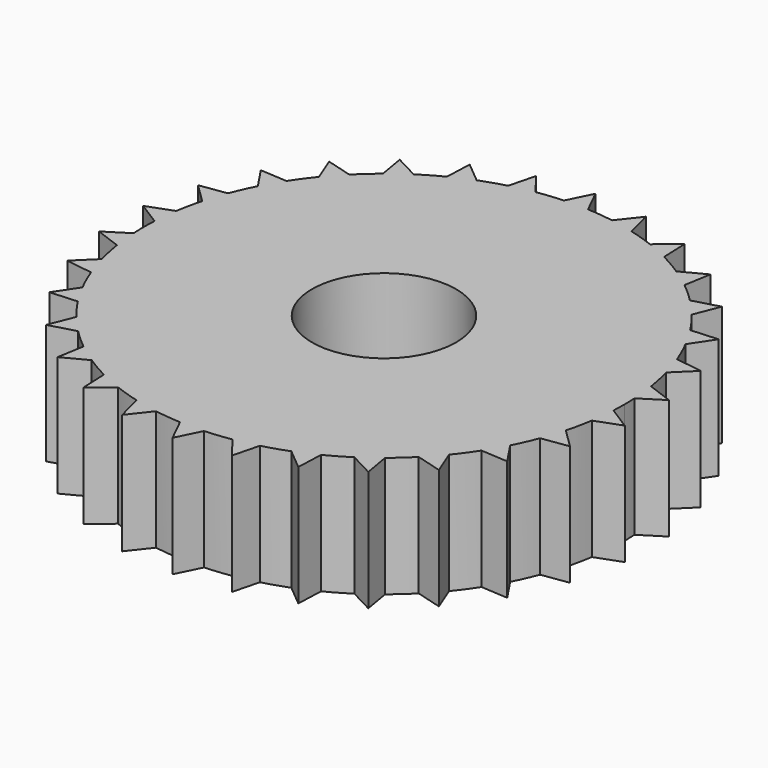
from build123d import *

# Parameters (mm, degrees)
F1_DEPTH = 25
F2_R     = 15
F3_DEPTH = 25


with BuildPart() as f1:
    # F0 (on Top) → F1 (new body)
    with BuildSketch(Plane.XY):
        with BuildLine():
            ThreePointArc((49.925219, -2.733581), (49.981301, -1.367302), (50, 0))
            ThreePointArc((50, 0), (49.981301, 1.367302), (49.925219, 2.733581))
            ThreePointArc((49.925219, 2.733581), (49.726095, 5.226423), (49.402577, 7.706191))
            ThreePointArc((49.402577, 7.706191), (48.90738, 10.395585), (48.26589, 13.053883))
            ThreePointArc((48.26589, 13.053883), (47.552826, 15.45085), (46.720805, 17.809165))
            ThreePointArc((46.720805, 17.809165), (45.677273, 20.336832), (44.49711, 22.803667))
            ThreePointArc((44.49711, 22.803667), (43.30127, 25), (41.99711, 27.133794))
            ThreePointArc((41.99711, 27.133794), (40.45085, 29.389263), (38.783592, 31.556821))
            ThreePointArc((38.783592, 31.556821), (37.157241, 33.45653), (35.437939, 35.272546))
            ThreePointArc((35.437939, 35.272546), (33.45653, 37.157241), (31.375046, 38.930791))
            ThreePointArc((31.375046, 38.930791), (29.389263, 40.45085), (27.329961, 41.869718))
            ThreePointArc((27.329961, 41.869718), (25, 43.30127), (22.595259, 44.603299))
            ThreePointArc((22.595259, 44.603299), (20.336832, 45.677273), (18.027532, 46.636982))
            ThreePointArc((18.027532, 46.636982), (15.45085, 47.552826), (12.827951, 48.326428))
            ThreePointArc((12.827951, 48.326428), (10.395585, 48.90738), (7.937213, 49.365987))
            ThreePointArc((7.937213, 49.365987), (5.226423, 49.726095), (2.5, 49.937461))
            ThreePointArc((2.5, 49.937461), (0, 50), (-2.5, 49.937461))
            ThreePointArc((-2.5, 49.937461), (-5.226423, 49.726095), (-7.937213, 49.365987))
            ThreePointArc((-7.937213, 49.365987), (-10.395585, 48.90738), (-12.827951, 48.326428))
            ThreePointArc((-12.827951, 48.326428), (-15.45085, 47.552826), (-18.027532, 46.636982))
            ThreePointArc((-18.027532, 46.636982), (-20.336832, 45.677273), (-22.595259, 44.603299))
            ThreePointArc((-22.595259, 44.603299), (-25, 43.30127), (-27.329961, 41.869718))
            ThreePointArc((-27.329961, 41.869718), (-29.389263, 40.45085), (-31.375046, 38.930791))
            ThreePointArc((-31.375046, 38.930791), (-33.45653, 37.157241), (-35.437939, 35.272546))
            ThreePointArc((-35.437939, 35.272546), (-37.157241, 33.45653), (-38.783592, 31.556821))
            ThreePointArc((-38.783592, 31.556821), (-40.45085, 29.389263), (-41.99711, 27.133794))
            ThreePointArc((-41.99711, 27.133794), (-43.30127, 25), (-44.49711, 22.803667))
            ThreePointArc((-44.49711, 22.803667), (-45.677273, 20.336832), (-46.720805, 17.809165))
            ThreePointArc((-46.720805, 17.809165), (-47.552826, 15.45085), (-48.26589, 13.053883))
            ThreePointArc((-48.26589, 13.053883), (-48.90738, 10.395585), (-49.402577, 7.706191))
            ThreePointArc((-49.402577, 7.706191), (-49.726095, 5.226423), (-49.925219, 2.733581))
            ThreePointArc((-49.925219, 2.733581), (-50, 0), (-49.925219, -2.733581))
            ThreePointArc((-49.925219, -2.733581), (-49.726095, -5.226423), (-49.402577, -7.706191))
            ThreePointArc((-49.402577, -7.706191), (-48.90738, -10.395585), (-48.26589, -13.053883))
            ThreePointArc((-48.26589, -13.053883), (-47.552826, -15.45085), (-46.720805, -17.809165))
            ThreePointArc((-46.720805, -17.809165), (-45.677273, -20.336832), (-44.49711, -22.803667))
            ThreePointArc((-44.49711, -22.803667), (-43.30127, -25), (-41.99711, -27.133794))
            ThreePointArc((-41.99711, -27.133794), (-40.45085, -29.389263), (-38.783592, -31.556821))
            ThreePointArc((-38.783592, -31.556821), (-37.157241, -33.45653), (-35.437939, -35.272546))
            ThreePointArc((-35.437939, -35.272546), (-33.45653, -37.157241), (-31.375046, -38.930791))
            ThreePointArc((-31.375046, -38.930791), (-29.389263, -40.45085), (-27.329961, -41.869718))
            ThreePointArc((-27.329961, -41.869718), (-25, -43.30127), (-22.595259, -44.603299))
            ThreePointArc((-22.595259, -44.603299), (-20.336832, -45.677273), (-18.027532, -46.636982))
            ThreePointArc((-18.027532, -46.636982), (-15.45085, -47.552826), (-12.827951, -48.326428))
            ThreePointArc((-12.827951, -48.326428), (-10.395585, -48.90738), (-7.937213, -49.365987))
            ThreePointArc((-7.937213, -49.365987), (-5.226423, -49.726095), (-2.5, -49.937461))
            ThreePointArc((-2.5, -49.937461), (0, -50), (2.5, -49.937461))
            ThreePointArc((2.5, -49.937461), (5.226423, -49.726095), (7.937213, -49.365987))
            ThreePointArc((7.937213, -49.365987), (10.395585, -48.90738), (12.827951, -48.326428))
            ThreePointArc((12.827951, -48.326428), (15.45085, -47.552826), (18.027532, -46.636982))
            ThreePointArc((18.027532, -46.636982), (20.336832, -45.677273), (22.595259, -44.603299))
            ThreePointArc((22.595259, -44.603299), (25, -43.30127), (27.329961, -41.869718))
            ThreePointArc((27.329961, -41.869718), (29.389263, -40.45085), (31.375046, -38.930791))
            ThreePointArc((31.375046, -38.930791), (33.45653, -37.157241), (35.437939, -35.272546))
            ThreePointArc((35.437939, -35.272546), (37.157241, -33.45653), (38.783592, -31.556821))
            ThreePointArc((38.783592, -31.556821), (40.45085, -29.389263), (41.99711, -27.133794))
            ThreePointArc((41.99711, -27.133794), (43.30127, -25), (44.49711, -22.803667))
            ThreePointArc((44.49711, -22.803667), (45.677273, -20.336832), (46.720805, -17.809165))
            ThreePointArc((46.720805, -17.809165), (47.552826, -15.45085), (48.26589, -13.053883))
            ThreePointArc((48.26589, -13.053883), (48.90738, -10.395585), (49.402577, -7.706191))
            ThreePointArc((49.402577, -7.706191), (49.726095, -5.226423), (49.925219, -2.733581))
        make_face()
        with BuildLine():
            ThreePointArc((49.402577, 7.706191), (49.726095, 5.226423), (49.925219, 2.733581))
            Line((49.925219, 2.733581), (54.698704, 5.749065))
            Line((54.698704, 5.749065), (49.402577, 7.706191))
        make_face()
        with BuildLine():
            Line((54.698704, -5.749065), (49.925219, -2.733581))
            ThreePointArc((49.925219, -2.733581), (49.726095, -5.226423), (49.402577, -7.706191))
            Line((49.402577, -7.706191), (54.698704, -5.749065))
        make_face()
        with BuildLine():
            ThreePointArc((46.720805, 17.809165), (47.552826, 15.45085), (48.26589, 13.053883))
            Line((48.26589, 13.053883), (52.308108, 16.995935))
            Line((52.308108, 16.995935), (46.720805, 17.809165))
        make_face()
        with BuildLine():
            Line((52.308108, -16.995935), (48.26589, -13.053883))
            ThreePointArc((48.26589, -13.053883), (47.552826, -15.45085), (46.720805, -17.809165))
            Line((46.720805, -17.809165), (52.308108, -16.995935))
        make_face()
        with BuildLine():
            ThreePointArc((41.99711, 27.133794), (43.30127, 25), (44.49711, 22.803667))
            Line((44.49711, 22.803667), (47.631397, 27.5))
            Line((47.631397, 27.5), (41.99711, 27.133794))
        make_face()
        with BuildLine():
            Line((47.631397, -27.5), (44.49711, -22.803667))
            ThreePointArc((44.49711, -22.803667), (43.30127, -25), (41.99711, -27.133794))
            Line((41.99711, -27.133794), (47.631397, -27.5))
        make_face()
        with BuildLine():
            ThreePointArc((35.437939, 35.272546), (37.157241, 33.45653), (38.783592, 31.556821))
            Line((38.783592, 31.556821), (40.872965, 36.802183))
            Line((40.872965, 36.802183), (35.437939, 35.272546))
        make_face()
        with BuildLine():
            Line((40.872965, -36.802183), (38.783592, -31.556821))
            ThreePointArc((38.783592, -31.556821), (37.157241, -33.45653), (35.437939, -35.272546))
            Line((35.437939, -35.272546), (40.872965, -36.802183))
        make_face()
        with BuildLine():
            ThreePointArc((27.329961, 41.869718), (29.389263, 40.45085), (31.375046, 38.930791))
            Line((31.375046, 38.930791), (32.328189, 44.495935))
            Line((32.328189, 44.495935), (27.329961, 41.869718))
        make_face()
        with BuildLine():
            Line((32.328189, -44.495935), (31.375046, -38.930791))
            ThreePointArc((31.375046, -38.930791), (29.389263, -40.45085), (27.329961, -41.869718))
            Line((27.329961, -41.869718), (32.328189, -44.495935))
        make_face()
        with BuildLine():
            ThreePointArc((18.027532, 46.636982), (20.336832, 45.677273), (22.595259, 44.603299))
            Line((22.595259, 44.603299), (22.370515, 50.245))
            Line((22.370515, 50.245), (18.027532, 46.636982))
        make_face()
        with BuildLine():
            Line((22.370515, -50.245), (22.595259, -44.603299))
            ThreePointArc((22.595259, -44.603299), (20.336832, -45.677273), (18.027532, -46.636982))
            Line((18.027532, -46.636982), (22.370515, -50.245))
        make_face()
        with BuildLine():
            ThreePointArc((7.937213, 49.365987), (10.395585, 48.90738), (12.827951, 48.326428))
            Line((12.827951, 48.326428), (11.435143, 53.798118))
            Line((11.435143, 53.798118), (7.937213, 49.365987))
        make_face()
        with BuildLine():
            Line((11.435143, -53.798118), (12.827951, -48.326428))
            ThreePointArc((12.827951, -48.326428), (10.395585, -48.90738), (7.937213, -49.365987))
            Line((7.937213, -49.365987), (11.435143, -53.798118))
        make_face()
        with BuildLine():
            ThreePointArc((-2.5, 49.937461), (0, 50), (2.5, 49.937461))
            Line((2.5, 49.937461), (0, 55))
            Line((0, 55), (-2.5, 49.937461))
        make_face()
        with BuildLine():
            Line((0, -55), (2.5, -49.937461))
            ThreePointArc((2.5, -49.937461), (0, -50), (-2.5, -49.937461))
            Line((-2.5, -49.937461), (0, -55))
        make_face()
        with BuildLine():
            ThreePointArc((-12.827951, 48.326428), (-10.395585, 48.90738), (-7.937213, 49.365987))
            Line((-7.937213, 49.365987), (-11.435143, 53.798118))
            Line((-11.435143, 53.798118), (-12.827951, 48.326428))
        make_face()
        with BuildLine():
            Line((-11.435143, -53.798118), (-7.937213, -49.365987))
            ThreePointArc((-7.937213, -49.365987), (-10.395585, -48.90738), (-12.827951, -48.326428))
            Line((-12.827951, -48.326428), (-11.435143, -53.798118))
        make_face()
        with BuildLine():
            ThreePointArc((-22.595259, 44.603299), (-20.336832, 45.677273), (-18.027532, 46.636982))
            Line((-18.027532, 46.636982), (-22.370515, 50.245))
            Line((-22.370515, 50.245), (-22.595259, 44.603299))
        make_face()
        with BuildLine():
            Line((-22.370515, -50.245), (-18.027532, -46.636982))
            ThreePointArc((-18.027532, -46.636982), (-20.336832, -45.677273), (-22.595259, -44.603299))
            Line((-22.595259, -44.603299), (-22.370515, -50.245))
        make_face()
        with BuildLine():
            ThreePointArc((-31.375046, 38.930791), (-29.389263, 40.45085), (-27.329961, 41.869718))
            Line((-27.329961, 41.869718), (-32.328189, 44.495935))
            Line((-32.328189, 44.495935), (-31.375046, 38.930791))
        make_face()
        with BuildLine():
            Line((-32.328189, -44.495935), (-27.329961, -41.869718))
            ThreePointArc((-27.329961, -41.869718), (-29.389263, -40.45085), (-31.375046, -38.930791))
            Line((-31.375046, -38.930791), (-32.328189, -44.495935))
        make_face()
        with BuildLine():
            ThreePointArc((-38.783592, 31.556821), (-37.157241, 33.45653), (-35.437939, 35.272546))
            Line((-35.437939, 35.272546), (-40.872965, 36.802183))
            Line((-40.872965, 36.802183), (-38.783592, 31.556821))
        make_face()
        with BuildLine():
            Line((-40.872965, -36.802183), (-35.437939, -35.272546))
            ThreePointArc((-35.437939, -35.272546), (-37.157241, -33.45653), (-38.783592, -31.556821))
            Line((-38.783592, -31.556821), (-40.872965, -36.802183))
        make_face()
        with BuildLine():
            ThreePointArc((-44.49711, 22.803667), (-43.30127, 25), (-41.99711, 27.133794))
            Line((-41.99711, 27.133794), (-47.631397, 27.5))
            Line((-47.631397, 27.5), (-44.49711, 22.803667))
        make_face()
        with BuildLine():
            Line((-47.631397, -27.5), (-41.99711, -27.133794))
            ThreePointArc((-41.99711, -27.133794), (-43.30127, -25), (-44.49711, -22.803667))
            Line((-44.49711, -22.803667), (-47.631397, -27.5))
        make_face()
        with BuildLine():
            ThreePointArc((-48.26589, 13.053883), (-47.552826, 15.45085), (-46.720805, 17.809165))
            Line((-46.720805, 17.809165), (-52.308108, 16.995935))
            Line((-52.308108, 16.995935), (-48.26589, 13.053883))
        make_face()
        with BuildLine():
            Line((-52.308108, -16.995935), (-46.720805, -17.809165))
            ThreePointArc((-46.720805, -17.809165), (-47.552826, -15.45085), (-48.26589, -13.053883))
            Line((-48.26589, -13.053883), (-52.308108, -16.995935))
        make_face()
        with BuildLine():
            ThreePointArc((-49.925219, 2.733581), (-49.726095, 5.226423), (-49.402577, 7.706191))
            Line((-49.402577, 7.706191), (-54.698704, 5.749065))
            Line((-54.698704, 5.749065), (-49.925219, 2.733581))
        make_face()
        with BuildLine():
            Line((-54.698704, -5.749065), (-49.402577, -7.706191))
            ThreePointArc((-49.402577, -7.706191), (-49.726095, -5.226423), (-49.925219, -2.733581))
            Line((-49.925219, -2.733581), (-54.698704, -5.749065))
        make_face()
    extrude(amount=F1_DEPTH)

    # F2 (on face) → F3 (cut)
    with BuildSketch(Plane.XY.offset(25)):
        Circle(F2_R)
    extrude(amount=-F3_DEPTH, mode=Mode.SUBTRACT)


solid = f1.part
